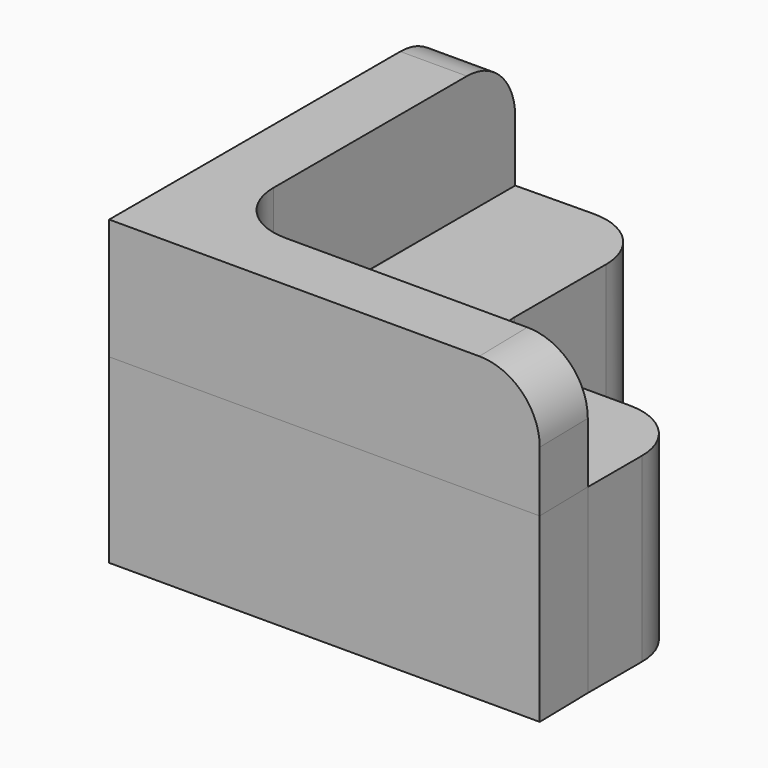
from build123d import *

# Parameters (mm, degrees)
F1_DEPTH = 15
F3_DEPTH = 10
F4_R     = 5
F4_2_R   = 5
F6_DEPTH = 15


with BuildPart() as f1:
    # F0 (on Top) → F1 (new body)
    with BuildSketch(Plane.XY):
        Polygon((-4.466667, 19.533333), (-15.933334, 19.4), (-15.933334, -10.6), (14.066666, -10.6), (14.066666, 0), (-4.466667, 0), align=None)
    extrude(amount=F1_DEPTH)

    # F4#2
    f4_2_edges = [f1.edges().sort_by_distance(p)[0] for p in [
        (-4.466667, 19.533333, 7.5),
        (14.066666, 0, 7.5),
        (-4.466667, 0, 7.5),
    ]]
    fillet(f4_2_edges, radius=F4_2_R)


with BuildPart() as f3:
    # F2 (on face) → F3 (new body)
    with BuildSketch(Plane.XY.offset(15)):
        Polygon((-15.933334, -10.6), (-15.933334, 19.4), (-21.443581, 19.4), (-21.443581, -15.695864), (14.168908, -15.695864), (14.066666, -10.6), align=None)
    extrude(amount=F3_DEPTH)

    # F4
    f4_edges = [f3.edges().sort_by_distance(p)[0] for p in [
        (14.117787, -13.147932, 25),
        (-18.688458, 19.4, 25),
        (-15.933334, -10.6, 20),
    ]]
    fillet(f4_edges, radius=F4_R)


with BuildPart() as f6:
    # F5 (on face) → F6 (new body)
    with BuildSketch(Plane(origin=(0, 0, 15), x_dir=(1, 0, 0), z_dir=(0, 0, -1))):
        Polygon((14.168908, 15.695864), (-21.443581, 15.695864), (-21.443581, -19.4), (-15.933334, -19.4), (-15.774743, 6.849304), (-10.933334, 10.6), (14.066666, 10.6), align=None)
    extrude(amount=F6_DEPTH)


solid = Compound([f1.part, f3.part, f6.part])
